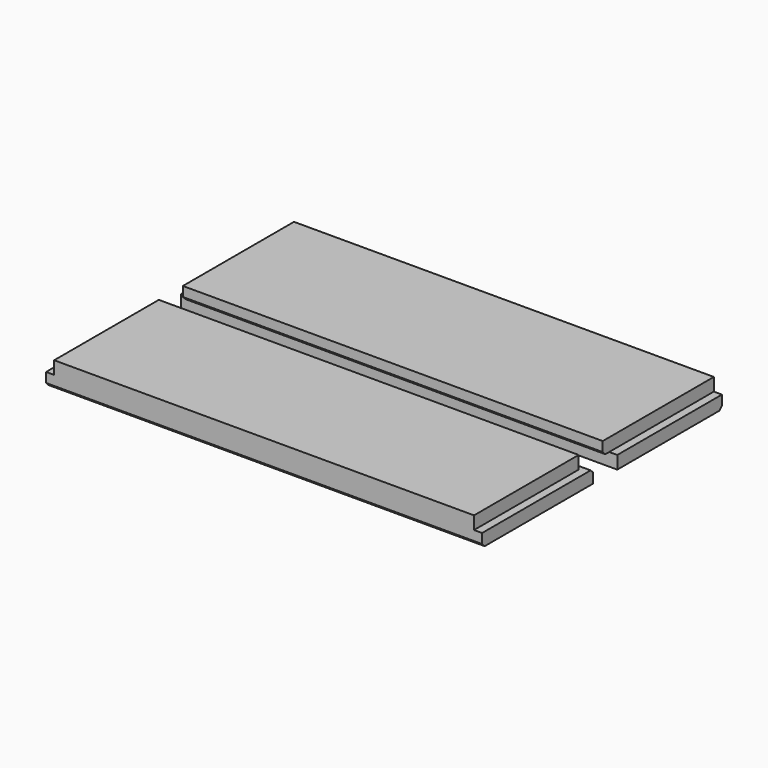
from build123d import *

# Parameters (mm, degrees)
F0_W          = 128.5875
F0_H          = 12.7
F0_W_2        = 7.9375
F0_W_3        = 128.58242
F1_DEPTH      = 412.75
F2_DEPTH      = 420.6875
F2_DEPTH_BACK = 7.9375
F0_W_4        = 7.94258
F3_DEPTH      = 420.6875
F3_DEPTH_BACK = 7.9375
F4_SIZE       = 3.175


with BuildPart() as f1:
    # F0 (on Right) → F1 (new body)
    with BuildSketch(Plane.YZ):
        with Locations((55.41789, -15.551377)):
            Rectangle(F0_W, F0_H)
        with Locations((-12.84461, -15.551377)):
            Rectangle(F0_W_2, F0_H)
        with Locations((-110.677167, -15.551377)):
            Rectangle(F0_W_3, F0_H)
    extrude(amount=F1_DEPTH)

    # F0 (on Right) → F2 (join, two sides)
    with BuildSketch(Plane.YZ) as f2_sk:
        with Locations((55.41789, -28.251377)):
            Rectangle(F0_W, F0_H)
    extrude(amount=F2_DEPTH)
    extrude(f2_sk.sketch, amount=-F2_DEPTH_BACK)

    # F0 (on Right) → F3 (join, two sides)
    with BuildSketch(Plane.YZ) as f3_sk:
        with Locations((-110.677167, -28.251377)):
            Rectangle(F0_W_3, F0_H)
        with Locations((-42.414667, -28.251377)):
            Rectangle(F0_W_4, F0_H)
    extrude(amount=F3_DEPTH)
    extrude(f3_sk.sketch, amount=-F3_DEPTH_BACK)

    # F4
    f4_edges = [f1.edges().sort_by_distance(p)[0] for p in [
        (206.375, -38.443377, -21.901377),
        (206.375, -16.81336, -21.901377),
        (206.375, 119.71164, -34.601377),
        (206.375, -174.968377, -34.601377),
    ]]
    chamfer(f4_edges, length=F4_SIZE)


solid = f1.part
